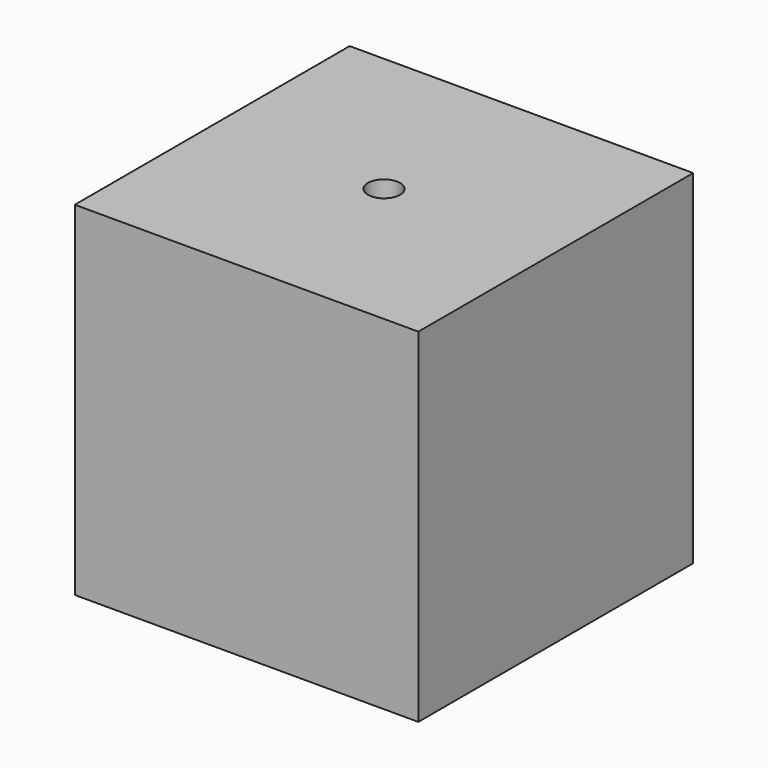
from build123d import *

# Parameters (mm, degrees)
F0_W     = 24.13
F0_H     = 24.13
F1_DEPTH = 24.13
F3_D     = 2.2606
F5_D     = 2.2606
F5_DEPTH = 12.066
F7_D     = 2.2606
F7_DEPTH = 12.066


with BuildPart() as f1:
    # F0 (on Top) → F1 (new body)
    with BuildSketch(Plane.XY):
        Rectangle(F0_W, F0_H)
    extrude(amount=F1_DEPTH)

    # F3 (through all)
    with Locations(Plane.XY.offset(24.13)):
        with Locations((0, 0)):
            Hole(F3_D / 2)

    # F5 (through all, one way)
    with BuildSketch(Plane.XZ):
        with Locations((0, 12.065)):
            Circle(F5_D / 2)
    extrude(amount=-F5_DEPTH, mode=Mode.SUBTRACT)

    # F7 (through all, one way)
    with BuildSketch(Plane.YZ):
        with Locations((0, 12.065)):
            Circle(F7_D / 2)
    extrude(amount=-F7_DEPTH, mode=Mode.SUBTRACT)


solid = f1.part
